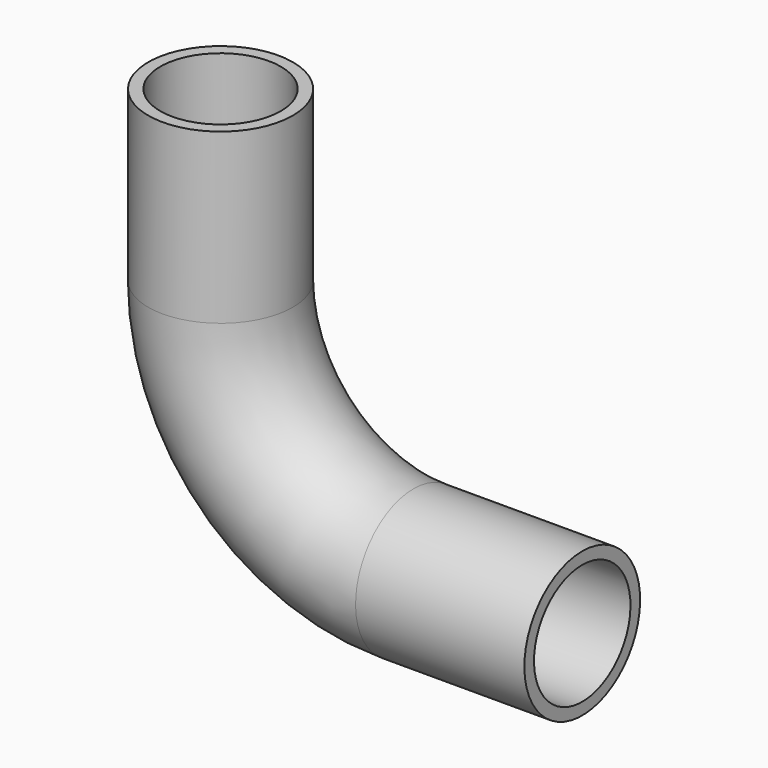
from build123d import *

# Parameters (mm, degrees)
F2_R = 15
F4_T = -2.5


with BuildPart() as f3:
    # F3: sweep along a path in F0
    with BuildLine(Plane.XZ) as f3_path:
        Line((0, 75), (0, 40))
        ThreePointArc((0, 40), (11.7157287525, 11.7157287525), (40, 0))
        Line((40, 0), (75, 0))
    # F2 (on line) → F3 (sweep)
    with BuildSketch(Plane(origin=(0, 0, 75), x_dir=(1, 0, 0), z_dir=(0, 0, -1))):
        Circle(F2_R)
    sweep(path=f3_path.line)

    # F4
    f4_openings = [f3.faces().sort_by_distance(p)[0] for p in [
        (75, 0, 0),
        (0, 0, 75),
    ]]
    offset(amount=F4_T, openings=f4_openings)


solid = f3.part
